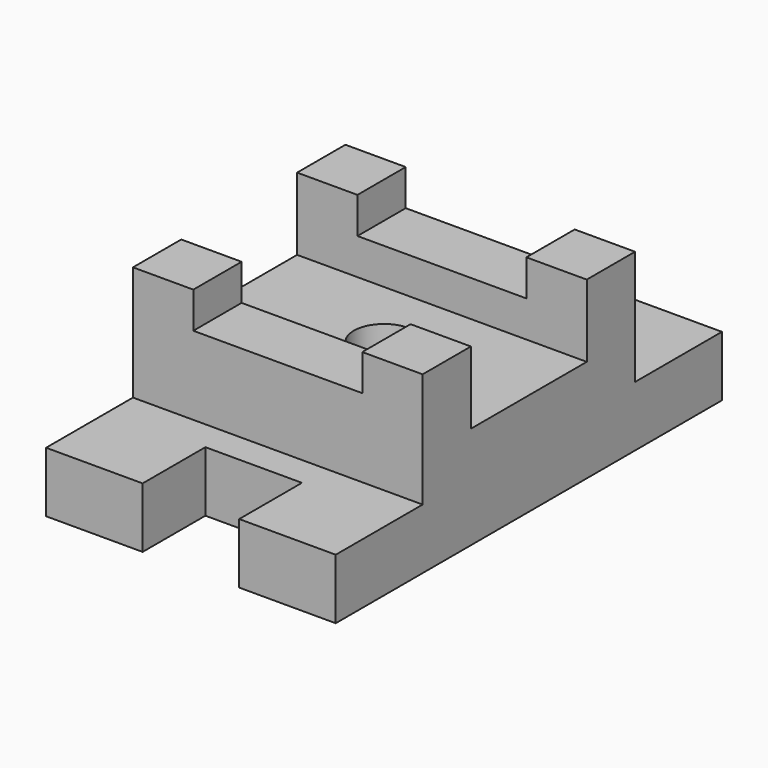
from build123d import *

# Parameters (mm, degrees)
F0_R     = 7.9375
F0_W     = 15.875
F0_H     = 15.875
F0_W_2   = 44.45
F1_DEPTH = 15.875
F2_DEPTH = 36.5125
F3_DEPTH = 46.0375
F4_DEPTH = 26.9875


with BuildPart() as f1:
    # F0 (on Top) → F1 (new body)
    with BuildSketch(Plane.XY):
        Polygon((38.1, -19.05), (38.1, 19.05), (22.225, 19.05), (-22.225, 19.05), (-38.1, 19.05), (-38.1, -19.05), (-22.225, -19.05), (22.225, -19.05), align=None)
        Circle(F0_R, mode=Mode.SUBTRACT)
        with Locations((30.1625, 26.9875)):
            Rectangle(F0_W, F0_H)
        with Locations((30.1625, -26.9875)):
            Rectangle(F0_W, F0_H)
        Polygon((22.225, 34.925), (38.1, 34.925), (38.1, 63.5), (12.7, 63.5), (12.7, 42.8625), (-12.7, 42.8625), (-12.7, 63.5), (-38.1, 63.5), (-38.1, 34.925), (-22.225, 34.925), align=None)
        with Locations((-30.1625, 26.9875)):
            Rectangle(F0_W, F0_H)
        Polygon((38.1, -63.5), (38.1, -34.925), (22.225, -34.925), (-22.225, -34.925), (-38.1, -34.925), (-38.1, -63.5), (-12.7, -63.5), (-12.7, -42.8625), (12.7, -42.8625), (12.7, -63.5), align=None)
        with Locations((-30.1625, -26.9875)):
            Rectangle(F0_W, F0_H)
        with Locations((0, 26.9875)):
            Rectangle(F0_W_2, F0_H)
        with Locations((0, -26.9875)):
            Rectangle(F0_W_2, F0_H)
    extrude(amount=F1_DEPTH)

    # F0 (on Top) → F2 (join)
    with BuildSketch(Plane.XY):
        with Locations((0, 26.9875)):
            Rectangle(F0_W_2, F0_H)
        with Locations((0, -26.9875)):
            Rectangle(F0_W_2, F0_H)
    extrude(amount=F2_DEPTH)

    # F0 (on Top) → F3 (join)
    with BuildSketch(Plane.XY):
        with Locations((-30.1625, 26.9875)):
            Rectangle(F0_W, F0_H)
        with Locations((30.1625, 26.9875)):
            Rectangle(F0_W, F0_H)
        with Locations((-30.1625, -26.9875)):
            Rectangle(F0_W, F0_H)
        with Locations((30.1625, -26.9875)):
            Rectangle(F0_W, F0_H)
    extrude(amount=F3_DEPTH)

    # F0 (on Top) → F4 (join)
    with BuildSketch(Plane.XY):
        Polygon((38.1, -19.05), (38.1, 19.05), (22.225, 19.05), (-22.225, 19.05), (-38.1, 19.05), (-38.1, -19.05), (-22.225, -19.05), (22.225, -19.05), align=None)
        Circle(F0_R, mode=Mode.SUBTRACT)
    extrude(amount=F4_DEPTH)


solid = f1.part
